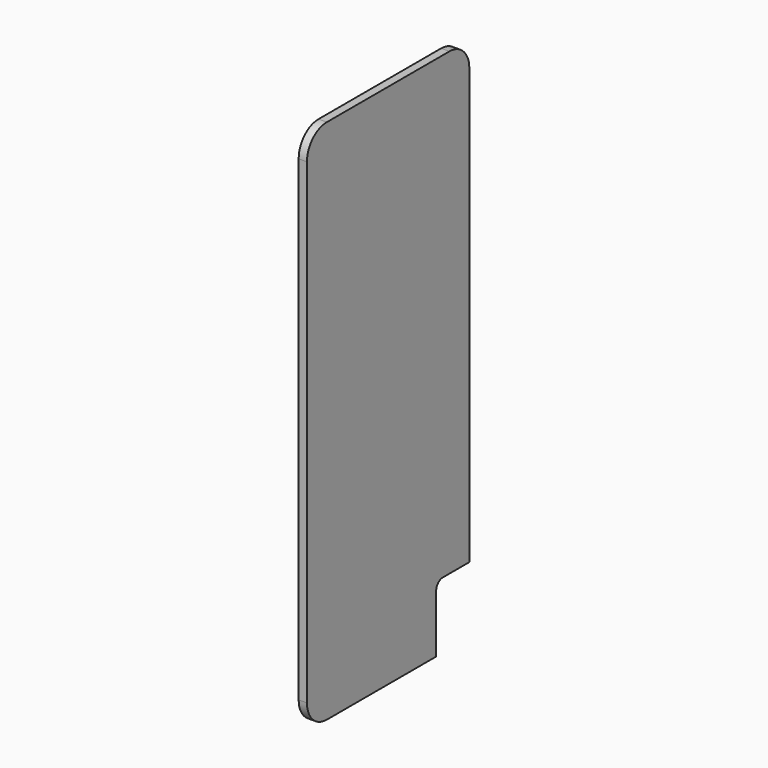
from build123d import *

# Parameters (mm, degrees)
F1_DEPTH = 12.7
F2_R     = 12.7


with BuildPart() as f1:
    # F0 (on Right) → F1 (new body)
    with BuildSketch(Plane.YZ):
        with BuildLine():
            Line((117.475, 806.45), (-117.475, 806.45))
            ThreePointArc((-117.475, 806.45), (-144.415768, 795.290768), (-155.575, 768.35))
            Line((-155.575, 768.35), (-155.575, 38.1))
            ThreePointArc((-155.575, 38.1), (-144.415768, 11.159232), (-117.475, 0))
            Line((-117.475, 0), (92.075, 0))
            Line((92.075, 0), (92.075, 101.6))
            Line((92.075, 101.6), (155.575, 101.6))
            Line((155.575, 101.6), (155.575, 768.35))
            ThreePointArc((155.575, 768.35), (144.415768, 795.290768), (117.475, 806.45))
        make_face()
    extrude(amount=F1_DEPTH)

    # F2
    f2_edges = [f1.edges().sort_by_distance(p)[0] for p in [
        (6.35, 92.075, 101.6),
    ]]
    fillet(f2_edges, radius=F2_R)


solid = f1.part
